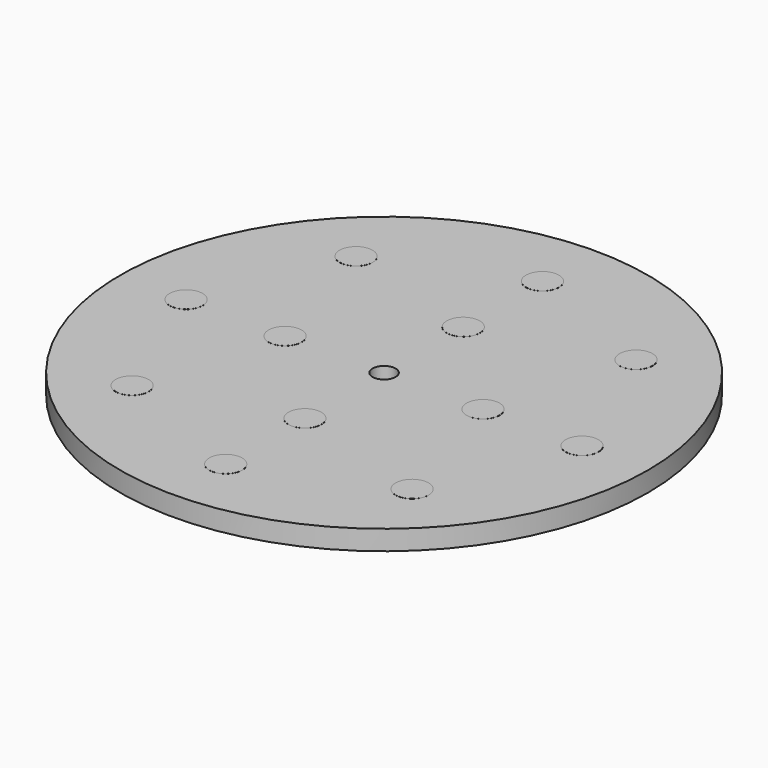
from build123d import *

# Parameters (mm, degrees)
F0_R     = 400
F1_DEPTH = 30
F3_R     = 25
F4_DEPTH = 0.1
F5_R     = 17.5
F6_DEPTH = 60


with BuildPart() as f1:
    # F0 (on Top) → F1 (new body)
    with BuildSketch(Plane.XY):
        Circle(F0_R)
    extrude(amount=F1_DEPTH)

    # F3 (on face) → F4 (join)
    with BuildSketch(Plane.XY.offset(30)):
        with Locations((212.132034, 212.132034)):
            Circle(F3_R)
        with Locations((212.132034, -212.132034)):
            Circle(F3_R)
        with Locations((-212.132034, -212.132034)):
            Circle(F3_R)
        with Locations((-212.132034, 212.132034)):
            Circle(F3_R)
        with Locations((0, 150)):
            Circle(F3_R)
        with Locations((0, -150)):
            Circle(F3_R)
        with Locations((150, 0)):
            Circle(F3_R)
        with Locations((-150, 0)):
            Circle(F3_R)
        with Locations((0, 300)):
            Circle(F3_R)
        with Locations((300, 0)):
            Circle(F3_R)
        with Locations((0, -300)):
            Circle(F3_R)
        with Locations((-300, 0)):
            Circle(F3_R)
    extrude(amount=F4_DEPTH)

    # F5 (on face) → F6 (cut)
    with BuildSketch(Plane.XY.offset(30)):
        Circle(F5_R)
    extrude(amount=-F6_DEPTH, mode=Mode.SUBTRACT)


solid = f1.part
